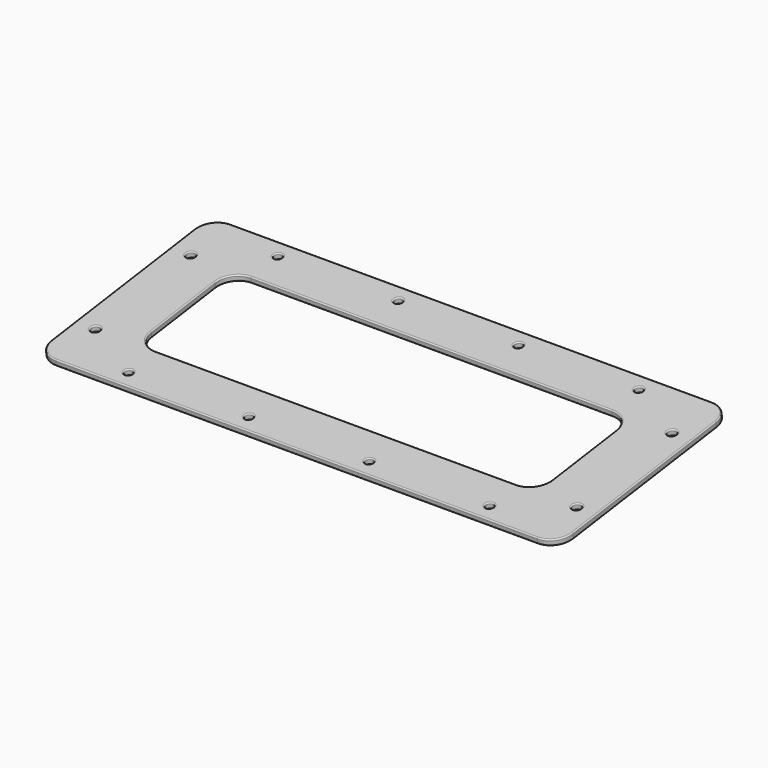
from build123d import *

# Parameters (mm, degrees)
SKETCH004_W             = 130
SKETCH004_H             = 55
SKETCH004_R             = 1
SKETCH004_R_2           = 1.1
SKETCH004_W_2           = 100
SKETCH004_H_2           = 30
PAD_DEPTH               = 1.5
FILLET_R                = 5
FILLET001_R             = 0.3
BODY001_PLACEMENT_ANGLE = 8


with BuildPart() as part:
    # Sketch004 → Pad (new body)
    with BuildSketch(Plane.XY):
        Rectangle(SKETCH004_W, SKETCH004_H)
        with Locations((-45, 23.5)):
            Circle(SKETCH004_R, mode=Mode.SUBTRACT)
        with Locations((-45, -23.5)):
            Circle(SKETCH004_R, mode=Mode.SUBTRACT)
        with Locations((-15, 23.5)):
            Circle(SKETCH004_R, mode=Mode.SUBTRACT)
        with Locations((-15, -23.5)):
            Circle(SKETCH004_R, mode=Mode.SUBTRACT)
        with Locations((15, 23.5)):
            Circle(SKETCH004_R, mode=Mode.SUBTRACT)
        with Locations((15, -23.5)):
            Circle(SKETCH004_R, mode=Mode.SUBTRACT)
        with Locations((45, -23.5)):
            Circle(SKETCH004_R, mode=Mode.SUBTRACT)
        with Locations((45, 23.5)):
            Circle(SKETCH004_R, mode=Mode.SUBTRACT)
        with Locations((60, 15)):
            Circle(SKETCH004_R_2, mode=Mode.SUBTRACT)
        with Locations((60, -15)):
            Circle(SKETCH004_R_2, mode=Mode.SUBTRACT)
        with Locations((-60, 15)):
            Circle(SKETCH004_R_2, mode=Mode.SUBTRACT)
        with Locations((-60, -15)):
            Circle(SKETCH004_R_2, mode=Mode.SUBTRACT)
        Rectangle(SKETCH004_W_2, SKETCH004_H_2, mode=Mode.SUBTRACT)
    extrude(amount=PAD_DEPTH)

    # Fillet
    fillet_edges = [part.edges().sort_by_distance(p)[0] for p in [
        (65, -27.5, 0.75),
        (65, 27.5, 0.75),
        (-65, 27.5, 0.75),
        (-65, -27.5, 0.75),
        (-50, 15, 0.75),
        (50, 15, 0.75),
        (50, -15, 0.75),
        (-50, -15, 0.75),
    ]]
    fillet(fillet_edges, radius=FILLET_R)

    # Fillet001
    fillet001_edges = [part.edges().sort_by_distance(p)[0] for p in [
        (0, 27.5, 1.5),
        (-63.535534, 26.035534, 1.5),
        (63.535534, 26.035534, 1.5),
        (-65, 0, 1.5),
        (65, 0, 1.5),
        (-63.535534, -26.035534, 1.5),
        (63.535534, -26.035534, 1.5),
        (0, -27.5, 1.5),
        (-61.1, -15, 1.5),
        (-61.1, 15, 1.5),
        (58.9, -15, 1.5),
        (58.9, 15, 1.5),
        (-16, -23.5, 1.5),
        (-16, 23.5, 1.5),
        (44, 23.5, 1.5),
        (44, -23.5, 1.5),
        (14, -23.5, 1.5),
        (14, 23.5, 1.5),
        (-46, -23.5, 1.5),
        (-46, 23.5, 1.5),
        (0, 15, 1.5),
        (-48.535534, 13.535534, 1.5),
        (48.535534, 13.535534, 1.5),
        (-50, 0, 1.5),
        (50, 0, 1.5),
        (-48.535534, -13.535534, 1.5),
        (48.535534, -13.535534, 1.5),
        (0, -15, 1.5),
        (0, 27.5, 0),
        (-63.535534, 26.035534, 0),
        (63.535534, 26.035534, 0),
        (-65, 0, 0),
        (65, 0, 0),
        (-63.535534, -26.035534, 0),
        (63.535534, -26.035534, 0),
        (0, -27.5, 0),
        (-61.1, -15, 0),
        (-61.1, 15, 0),
        (58.9, -15, 0),
        (58.9, 15, 0),
        (-16, -23.5, 0),
        (-16, 23.5, 0),
        (44, 23.5, 0),
        (44, -23.5, 0),
        (14, -23.5, 0),
        (14, 23.5, 0),
        (-46, -23.5, 0),
        (-46, 23.5, 0),
        (0, 15, 0),
        (-48.535534, 13.535534, 0),
        (48.535534, 13.535534, 0),
        (-50, 0, 0),
        (50, 0, 0),
        (-48.535534, -13.535534, 0),
        (48.535534, -13.535534, 0),
        (0, -15, 0),
    ]]
    fillet(fillet001_edges, radius=FILLET001_R)


with BuildPart() as part_1:
    # Body001 placement: moved
    add(part.part.moved(Location((0, -2, 15))).rotate(Axis((0, -2, 15), (1, 0, 0)), BODY001_PLACEMENT_ANGLE))


solid = part_1.part
